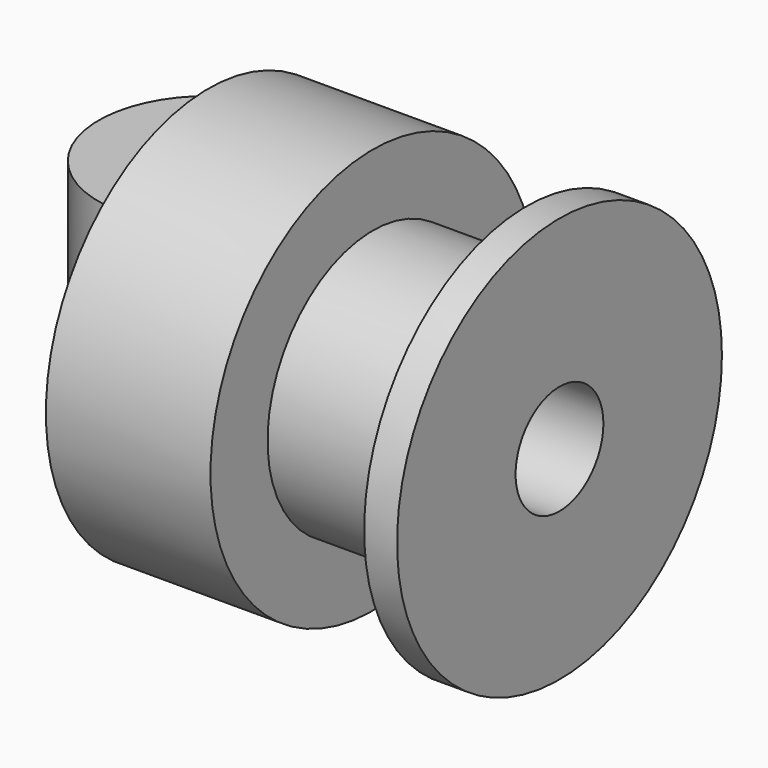
from build123d import *

# Parameters (mm, degrees)
F4_R     = 5
F4_R_2   = 2.55
F5_DEPTH = 6.35


with BuildPart() as f1:
    # F0 (on Top) → F1 (revolve)
    with BuildSketch(Plane.XY):
        Polygon((0, 8), (0, 2.5), (16, 2.5), (16, 8), (14.5, 8), (14.5, 5), (7.5, 5), (7.5, 8), align=None)
    revolve(axis=Axis((-19.000001, 0, 0), (-1, 0, 0)))


with BuildPart() as f3:
    # F2 (on Top) → F3 (revolve)
    with BuildSketch(Plane.XY):
        Polygon((0, 9.25), (0, 2.5), (16, 2.5), (16, 9.25), (14.5, 9.25), (14.5, 6), (7.5, 6), (7.5, 9.25), align=None)
    revolve(axis=Axis((24.657246, 0, 0), (-1, 0, 0)))


with BuildPart() as f5:
    # F4 (on Top) → F5 (new body)
    with BuildSketch(Plane.XY):
        Circle(F4_R)
        Circle(F4_R_2, mode=Mode.SUBTRACT)
    extrude(amount=F5_DEPTH)


solid = Compound([f1.part, f3.part, f5.part])
